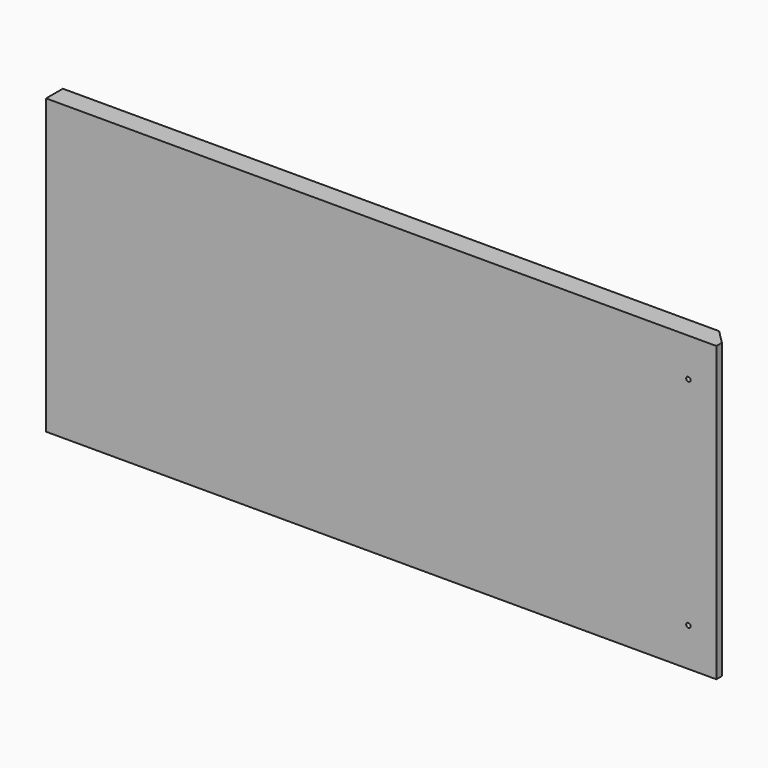
from build123d import *

# Parameters (mm, degrees)
F0_W     = 1218.2094
F0_H     = 533.4
F1_DEPTH = 38.1
F3_D     = 6.35
F3_DEPTH = 1.524
F3_TIP   = 1.9077324654
F4_SIZE2 = 25.4
F4_SIZE  = 25.4
F6_DEPTH = 12.7
F7_R     = 3.9751
F8_DEPTH = 12.7


with BuildPart() as f1:
    # F0 (on Front) → F1 (new body)
    with BuildSketch(Plane.XZ):
        with Locations((609.1047, -304.8)):
            Rectangle(F0_W, F0_H)
    extrude(amount=F1_DEPTH)

    # F3
    with Locations(Plane(origin=(0, 0, 0), x_dir=(0, -1, 0), z_dir=(-1, 0, 0))):
        with Locations((19.05, -552.45), (19.05, -590.55)):
            Hole(F3_D / 2, depth=F3_DEPTH)
            with Locations((0, 0, -(F3_DEPTH + F3_TIP / 2))):  # 118° drill point
                Cone(0, F3_D / 2, F3_TIP, mode=Mode.SUBTRACT)

    # F4
    f4_edges = [f1.edges().sort_by_distance(p)[0] for p in [
        (1218.2094, 0, -304.8),
    ]]
    chamfer(f4_edges, length=F4_SIZE, length2=F4_SIZE2)

    # F5 (on face) → F6 (cut)
    with BuildSketch(Plane(origin=(596.4047, 596.4047, 0), x_dir=(-0.7071067812, 0.7071067812, 0), z_dir=(0.7071067812, 0.7071067812, 0))):
        with BuildLine():
            ThreePointArc((-864.5791276452, -561.975), (-863.6491916755, -564.2200640303), (-861.4041276452, -565.15))
            Line((-861.4041276452, -565.15), (-861.4041276452, -561.975))
            Line((-861.4041276452, -561.975), (-864.5791276452, -561.975))
        make_face()
        with BuildLine():
            ThreePointArc((-861.4041276452, -44.45), (-864.5791276452, -47.625), (-861.4041276452, -50.8))
            Line((-861.4041276452, -50.8), (-861.4041276452, -44.45))
        make_face()
        with BuildLine():
            Line((-861.4041276452, -44.45), (-861.4041276452, -50.8))
            ThreePointArc((-861.4041276452, -50.8), (-859.1590636149, -49.8700640303), (-858.2291276452, -47.625))
            ThreePointArc((-858.2291276452, -47.625), (-859.1590636149, -45.3799359697), (-861.4041276452, -44.45))
        make_face()
        with BuildLine():
            ThreePointArc((-861.4041276452, -107.95), (-864.5791276452, -111.125), (-861.4041276452, -114.3))
            Line((-861.4041276452, -114.3), (-861.4041276452, -107.95))
        make_face()
        with BuildLine():
            Line((-861.4041276452, -107.95), (-861.4041276452, -114.3))
            ThreePointArc((-861.4041276452, -114.3), (-859.1590636149, -113.3700640303), (-858.2291276452, -111.125))
            ThreePointArc((-858.2291276452, -111.125), (-859.1590636149, -108.8799359697), (-861.4041276452, -107.95))
        make_face()
        with BuildLine():
            ThreePointArc((-861.4041276452, -495.3), (-864.5791276452, -498.475), (-861.4041276452, -501.65))
            Line((-861.4041276452, -501.65), (-861.4041276452, -498.475))
            Line((-861.4041276452, -498.475), (-861.4041276452, -495.3))
        make_face()
        with BuildLine():
            Line((-861.4041276452, -498.475), (-861.4041276452, -501.65))
            ThreePointArc((-861.4041276452, -501.65), (-859.1590636149, -500.7200640303), (-858.2291276452, -498.475))
            ThreePointArc((-858.2291276452, -498.475), (-859.1590636149, -496.2299359697), (-861.4041276452, -495.3))
            Line((-861.4041276452, -495.3), (-861.4041276452, -498.475))
        make_face()
        with BuildLine():
            Line((-861.4041276452, -561.975), (-861.4041276452, -565.15))
            ThreePointArc((-861.4041276452, -565.15), (-859.1590636149, -564.2200640303), (-858.2291276452, -561.975))
            ThreePointArc((-858.2291276452, -561.975), (-859.1590636149, -559.7299359697), (-861.4041276452, -558.8))
            Line((-861.4041276452, -558.8), (-861.4041276452, -561.975))
        make_face()
        with BuildLine():
            Line((-864.5791276452, -561.975), (-861.4041276452, -561.975))
            Line((-861.4041276452, -561.975), (-861.4041276452, -558.8))
            ThreePointArc((-861.4041276452, -558.8), (-863.6491916755, -559.7299359697), (-864.5791276452, -561.975))
        make_face()
    extrude(amount=-F6_DEPTH, mode=Mode.SUBTRACT)

    # F7 (on face) → F8 (cut)
    with BuildSketch(Plane.XZ.offset(38.1)):
        with BuildLine():
            ThreePointArc((1167.4094, -103.9749), (1164.5985798341, -110.7608201659), (1171.3845, -107.95))
            ThreePointArc((1171.3845, -107.95), (1170.2202201659, -105.1391798341), (1167.4094, -103.9749))
        make_face()
        with Locations((1167.4094, -501.65)):
            Circle(F7_R)
    extrude(amount=-F8_DEPTH, mode=Mode.SUBTRACT)


solid = f1.part
